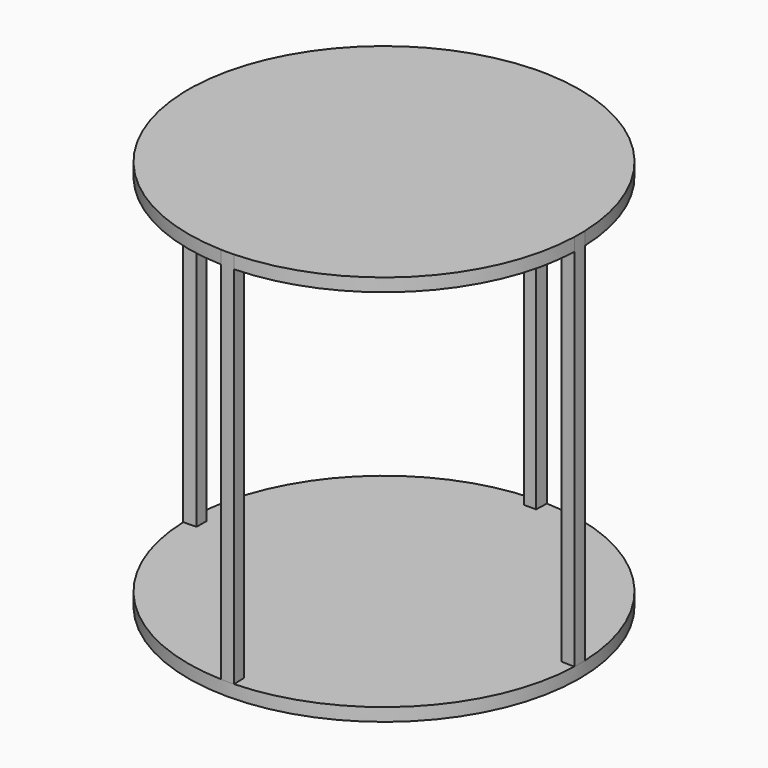
from build123d import *

# Parameters (mm, degrees)
F0_R     = 1350
F1_DEPTH = 90
F3_DEPTH = 2610
F5_COUNT = 4
F7_DEPTH = 90


with BuildPart() as f1:
    # F0 (on Top) → F1 (new body)
    with BuildSketch(Plane.XY):
        Circle(F0_R)
    extrude(amount=F1_DEPTH)

    # F2 (on face) → F3 (join)
    with BuildSketch(Plane.XY.offset(90)):
        with BuildLine():
            Line((-1259.2497915508, 41.9983319432), (-1349.2497915508, 45))
            ThreePointArc((-1349.2497915508, 45), (-1350, 0), (-1349.2497915508, -45))
            Line((-1349.2497915508, -45), (-1259.2497915508, -41.9983319432))
            Line((-1259.2497915508, -41.9983319432), (-1259.2497915508, 0))
            Line((-1259.2497915508, 0), (-1259.2497915508, 41.9983319432))
        make_face()
    extrude(amount=F3_DEPTH)


with BuildPart() as f5_1:
    # F5: instance of F1
    add(f1.part.rotate(Axis((0, 0, 397.8728353977), (0, 0, 1)), 1 * 360 / F5_COUNT))


with BuildPart() as f5_2:
    # F5: instance of F1
    add(f1.part.rotate(Axis((0, 0, 397.8728353977), (0, 0, 1)), 2 * 360 / F5_COUNT))


with BuildPart() as f5_3:
    # F5: instance of F1
    add(f1.part.rotate(Axis((0, 0, 397.8728353977), (0, 0, 1)), 3 * 360 / F5_COUNT))


with BuildPart() as f1_1:
    add(f1.part)

    add(f5_1.part)  # F7 merges F5_1

    add(f5_2.part)  # F7 merges F5_2

    add(f5_3.part)  # F7 merges F5_3
    # F6 (on face) → F7 (join)
    with BuildSketch(Plane.XY.offset(2700)):
        with BuildLine():
            ThreePointArc((-1349.2497915508, 45), (-1350, 0), (-1349.2497915508, -45))
            ThreePointArc((-1349.2497915508, -45), (1350, 0), (-1349.2497915508, 45))
        make_face()
    extrude(amount=-F7_DEPTH)


solid = f1_1.part
